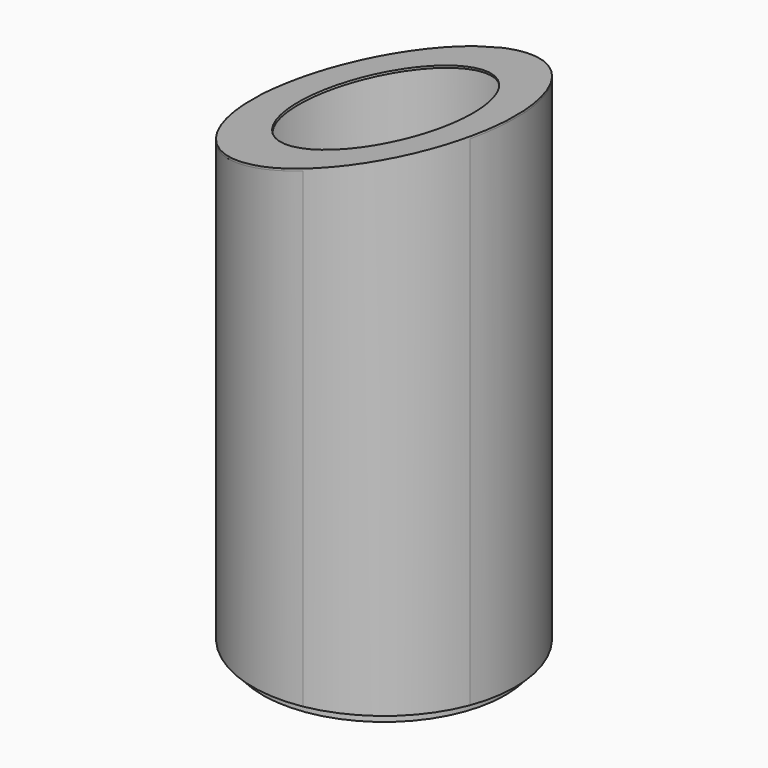
from build123d import *

# Parameters (mm, degrees)
F0_R          = 51.562
F0_R_2        = 47.5
F1_DEPTH      = 196.85
F3_DEPTH      = 61
F3_DEPTH_BACK = 74
F4_W          = 38.1
F4_H          = 101.6
F5_DEPTH      = 61
F8_DEPTH      = 103.1
F10_DEPTH     = 222
F12_R         = 35.605551274
F13_DEPTH     = 6.3
F14_R         = 47.7557531621
F15_DEPTH     = 4


with BuildPart() as f1:
    # F0 (on Top) → F1 (new body)
    with BuildSketch(Plane.XY):
        Circle(F0_R)
        Circle(F0_R_2, mode=Mode.SUBTRACT)
    extrude(amount=F1_DEPTH)

    # F2 (on Front) → F3 (cut, two sides)
    with BuildSketch(Plane.XZ) as f3_sk:
        Polygon((-53.9132580161, 197.3211467266), (-51.5358708799, 168.91), (53.5786189139, 197.3211467266), align=None)
    extrude(amount=F3_DEPTH, mode=Mode.SUBTRACT)
    extrude(f3_sk.sketch, amount=-F3_DEPTH_BACK, mode=Mode.SUBTRACT)

    # F4 (on Right) → F5 (cut)
    with BuildSketch(Plane.YZ):
        with Locations((0.9657477468, 50.8)):
            Rectangle(F4_W, F4_H)
    extrude(amount=-F5_DEPTH, mode=Mode.SUBTRACT)

    # F7 (on offset) → F8 (join)
    with BuildSketch(Plane.XZ.offset(51.59)):
        Polygon((-51.558252424, 169.7267442942), (-51.558252424, 168.8925474882), (51.5620075166, 196.7761367559), (51.5620075166, 197.6103335619), align=None)
    extrude(amount=-F8_DEPTH)

    # F9 (on Top) → F10 (cut)
    with BuildSketch(Plane.XY):
        Polygon((-55.258795619, 55.1219135523), (-55.258795619, 0), (-55.258795619, -56.1094321311), (54.045163095, -56.1094321311), (54.045163095, 51.9001446664), align=None)
        with BuildLine():
            ThreePointArc((-51.776278764, 0), (-36.3661223593, 36.403048351), (0, 51.9001446664))
            ThreePointArc((0, 51.9001446664), (36.452456, 36.4891781459), (51.7762713134, 0))
            ThreePointArc((51.7762713134, 0), (36.3947916683, -36.3580565829), (0, -51.6524128616))
            ThreePointArc((0, -51.6524128616), (-36.4887208542, -36.4522087985), (-51.776278764, 0))
        make_face(mode=Mode.SUBTRACT)
    extrude(amount=F10_DEPTH, mode=Mode.SUBTRACT)

    # F12 (on offset) → F13 (cut)
    with BuildSketch(Plane(origin=(-46.3581408372, 0, 171.4436218234), x_dir=(0.9653321478, 0, 0.261024605), z_dir=(-0.261024605, 0, 0.9653321478))):
        with Locations((48.5923029482, 0)):
            Circle(F12_R)
    extrude(amount=-F13_DEPTH, mode=Mode.SUBTRACT)

    # F14 (on Top) → F15 (join)
    with BuildSketch(Plane.XY):
        Circle(F14_R)
    extrude(amount=-F15_DEPTH)


solid = f1.part
